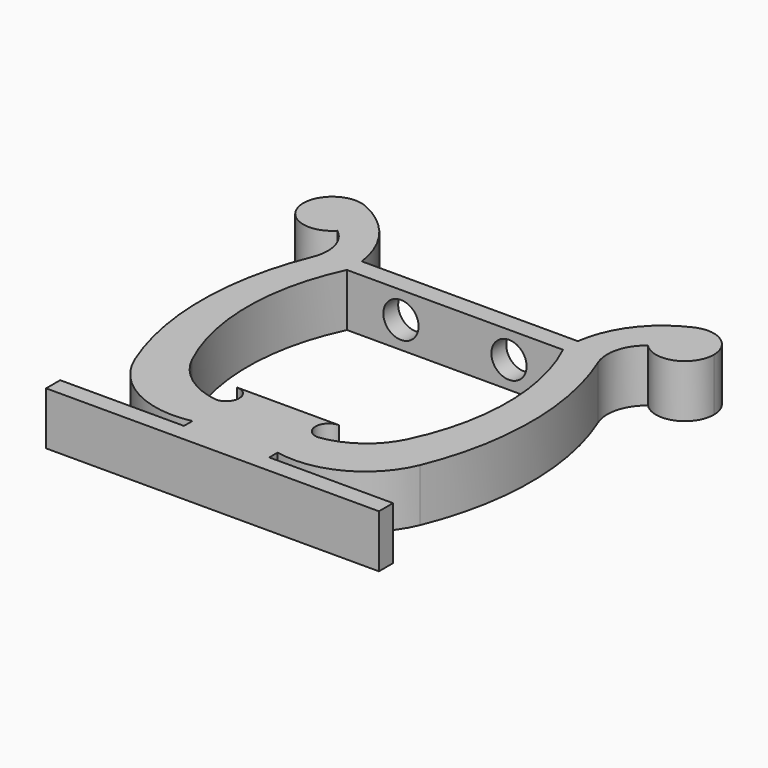
from build123d import *

# Parameters (mm, degrees)
F1_DEPTH = 7.62
F3_D     = 5.08
F3_DEPTH = 12.7
F4_D     = 5.08
F4_DEPTH = 12.7


with BuildPart() as f1:
    # F0 (on Top) → F1 (new body)
    with BuildSketch(Plane.XY):
        with BuildLine():
            Line((15.568078, 18.394932), (0, 18.394932))
            Line((0, 18.394932), (-15.568078, 18.394932))
            ThreePointArc((-15.568078, 18.394932), (-18.165729, 24.785284), (-23.540653, 29.109008))
            ThreePointArc((-23.540653, 29.109008), (-21.857535, 27.570607), (-21.234469, 25.377127))
            ThreePointArc((-21.234469, 25.377127), (-21.529728, 23.83544), (-22.373719, 22.511939))
            ThreePointArc((-22.373719, 22.511939), (-20.346426, 19.455849), (-20.576485, 15.795702))
            ThreePointArc((-20.576485, 15.795702), (-23.7418, -0.239949), (-20.576485, -16.2756))
            ThreePointArc((-20.576485, -16.2756), (-14.735157, -22.687615), (-6.146982, -23.903467))
            Line((-6.146982, -23.903467), (-6.146982, -25.422873))
            Line((-6.146982, -25.422873), (-23.984324, -25.422873))
            Line((-23.984324, -25.422873), (-23.984324, -27.962873))
            Line((-23.984324, -27.962873), (0, -27.962873))
            Line((0, -27.962873), (23.984324, -27.962873))
            Line((23.984324, -27.962873), (23.984324, -25.422873))
            Line((23.984324, -25.422873), (6.146982, -25.422873))
            Line((6.146982, -25.422873), (6.146982, -23.903467))
            ThreePointArc((6.146982, -23.903467), (14.735157, -22.687615), (20.576485, -16.2756))
            ThreePointArc((20.576485, -16.2756), (23.7418, -0.239949), (20.576485, 15.795702))
            ThreePointArc((20.576485, 15.795702), (20.346426, 19.455849), (22.373719, 22.511939))
            ThreePointArc((22.373719, 22.511939), (21.298254, 26.103916), (23.540653, 29.109008))
            ThreePointArc((23.540653, 29.109008), (18.165729, 24.785284), (15.568078, 18.394932))
        make_face()
        with BuildLine():
            Line((-15.568078, 15.716709), (0, 15.716709))
            Line((0, 15.716709), (15.568078, 15.716709))
            ThreePointArc((15.568078, 15.716709), (18.720393, 1.774382), (15.568078, -12.167946))
            ThreePointArc((15.568078, -12.167946), (12.222243, -16.213262), (7.349744, -18.16722))
            ThreePointArc((7.349744, -18.16722), (5.494258, -16.270557), (7.349744, -14.373895))
            Line((7.349744, -14.373895), (0, -14.373895))
            Line((0, -14.373895), (-7.349744, -14.373895))
            ThreePointArc((-7.349744, -14.373895), (-5.494258, -16.270557), (-7.349744, -18.16722))
            ThreePointArc((-7.349744, -18.16722), (-12.222243, -16.213262), (-15.568078, -12.167946))
            ThreePointArc((-15.568078, -12.167946), (-18.720393, 1.774382), (-15.568078, 15.716709))
        make_face(mode=Mode.SUBTRACT)
        with BuildLine():
            ThreePointArc((23.979965, 29.29807), (23.759487, 29.20545), (23.540653, 29.109008))
            ThreePointArc((23.540653, 29.109008), (21.298254, 26.103916), (22.373719, 22.511939))
            ThreePointArc((22.373719, 22.511939), (26.948726, 21.499817), (29.579608, 25.377127))
            ThreePointArc((29.579608, 25.377127), (27.800339, 28.795087), (23.979965, 29.29807))
        make_face()
        with BuildLine():
            ThreePointArc((-21.234469, 25.377127), (-21.857535, 27.570607), (-23.540653, 29.109008))
            ThreePointArc((-23.540653, 29.109008), (-23.759487, 29.20545), (-23.979965, 29.29807))
            ThreePointArc((-23.979965, 29.29807), (-29.467417, 24.416054), (-22.373719, 22.511939))
            ThreePointArc((-22.373719, 22.511939), (-21.529728, 23.83544), (-21.234469, 25.377127))
        make_face()
    extrude(amount=F1_DEPTH)

    # F3
    with Locations(Plane(origin=(0, 18.394932, 0), x_dir=(-1, 0, 0), z_dir=(0, 1, 0))):
        with Locations((7.784039, 3.81)):
            Hole(F3_D / 2, depth=F3_DEPTH)

    # F4
    with Locations(Plane(origin=(0, 18.394932, 0), x_dir=(-1, 0, 0), z_dir=(0, 1, 0))):
        with Locations((-7.784039, 3.81)):
            Hole(F4_D / 2, depth=F4_DEPTH)


solid = f1.part
